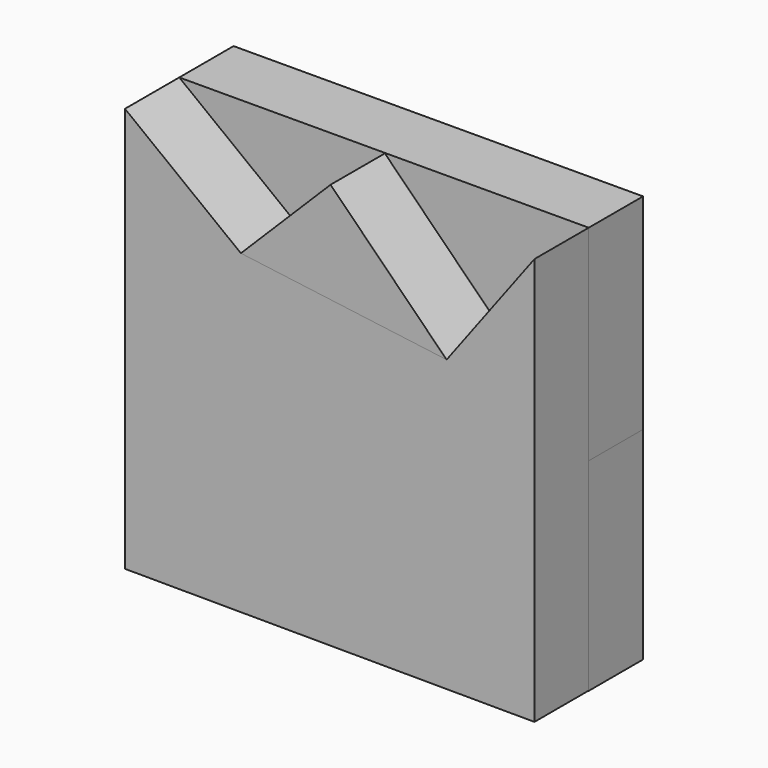
from build123d import *

# Parameters (mm, degrees)
F1_DEPTH = 25.4
F3_DEPTH = 25.4
F4_DEPTH = 25.4


with BuildPart() as f1:
    # F0 (on Front) → F1 (new body)
    with BuildSketch(Plane.XZ):
        Polygon((76.282389462, 77.0956277847), (-76.9329741597, 76.7703279853), (-76.9329741597, 0), (0, 76.7703279853), (76.282389462, 0.326326099), align=None)
    extrude(amount=F1_DEPTH)


with BuildPart() as f1b:
    # F0 (on Front) → F1, piece 2 (new body)
    with BuildSketch(Plane.XZ):
        Polygon((76.282389462, -75.4691362381), (76.282389462, 0.326326099), (0.326346308, -75.4691362381), align=None)
    extrude(amount=F1_DEPTH)


with BuildPart() as f1c:
    # F0 (on Front) → F1, piece 3 (new body)
    with BuildSketch(Plane.XZ):
        Polygon((0, -75.4691362381), (-76.9329741597, 0), (-76.9329741597, -75.4691362381), align=None)
    extrude(amount=F1_DEPTH)


with BuildPart() as f3:
    # F2 (on face) → F3 (new body)
    with BuildSketch(Plane.XZ.offset(25.4)):
        Polygon((0, 76.7703279853), (-33.5551746446, 43.2860932835), (43.4244395533, 33.253889099), align=None)
    extrude(amount=F3_DEPTH)


with BuildPart() as f4:
    # F2 (on face) → F4 (new body)
    with BuildSketch(Plane.XZ.offset(25.4)):
        Polygon((-33.5551746446, 43.2860932835), (-76.9329741597, 76.7703279853), (-76.9329741597, -74.7774764895), (-30.2719958127, -46.0318885744), align=None)
        Polygon((43.4244395533, 33.253889099), (-33.5551746446, 43.2860932835), (-30.2719958127, -46.0318885744), (30.0138946623, -46.0318885744), align=None)
        Polygon((-30.2719958127, -46.0318885744), (-76.9329741597, -74.7774764895), (76.282389462, -75.3763392568), (30.0138946623, -46.0318885744), align=None)
        Polygon((76.282389462, 77.0956277847), (43.4244395533, 33.253889099), (30.0138946623, -46.0318885744), (76.282389462, -75.3763392568), align=None)
    extrude(amount=F4_DEPTH)


solid = Compound([f1.part, f1b.part, f1c.part, f3.part, f4.part])
